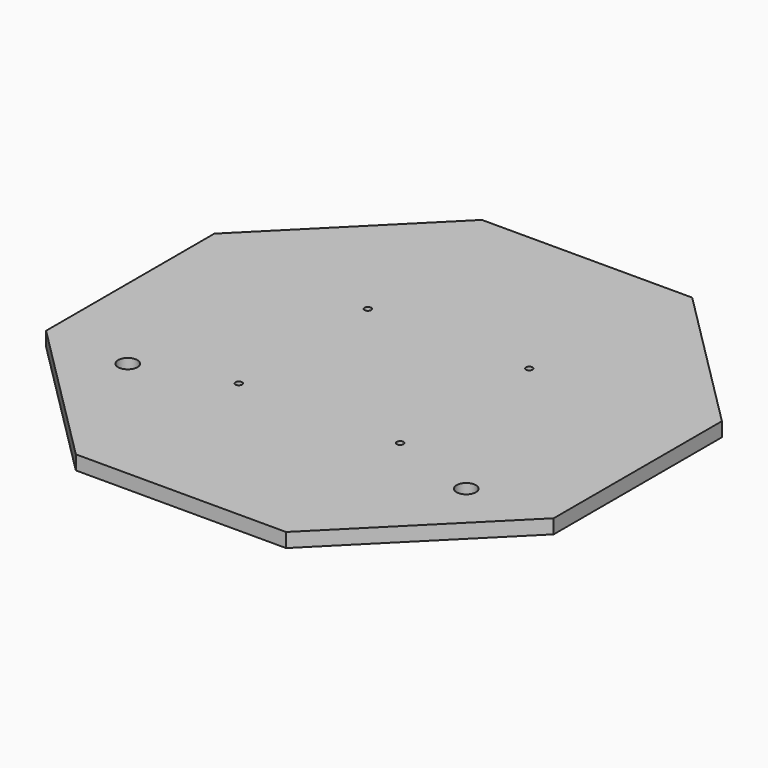
from build123d import *

# Parameters (mm, degrees)
F0_R     = 3.81
F0_R_2   = 1.3
F1_DEPTH = 5.588


with BuildPart() as f1:
    # F0 (on Top) → F1 (new body)
    with BuildSketch(Plane.XY):
        Polygon((41.4213562373, 100), (-41.4213562373, 100), (-100, 41.4213562373), (-100, -41.4213562373), (-41.4213562373, -100), (41.4213562373, -100), (100, -41.4213562373), (100, 41.4213562373), align=None)
        with Locations((-66.675, -42.85)):
            Circle(F0_R, mode=Mode.SUBTRACT)
        with Locations((-31.7881, -31.7881)):
            Circle(F0_R_2, mode=Mode.SUBTRACT)
        with Locations((31.7881, -31.7881)):
            Circle(F0_R_2, mode=Mode.SUBTRACT)
        with BuildLine():
            ThreePointArc((70.485, -42.85), (66.675, -46.66), (62.865, -42.85))
            ThreePointArc((62.865, -42.85), (66.675, -39.04), (70.485, -42.85))
        make_face(mode=Mode.SUBTRACT)
        with Locations((-31.7881, 31.7881)):
            Circle(F0_R_2, mode=Mode.SUBTRACT)
        with Locations((31.7881, 31.7881)):
            Circle(F0_R_2, mode=Mode.SUBTRACT)
    extrude(amount=F1_DEPTH)


solid = f1.part
